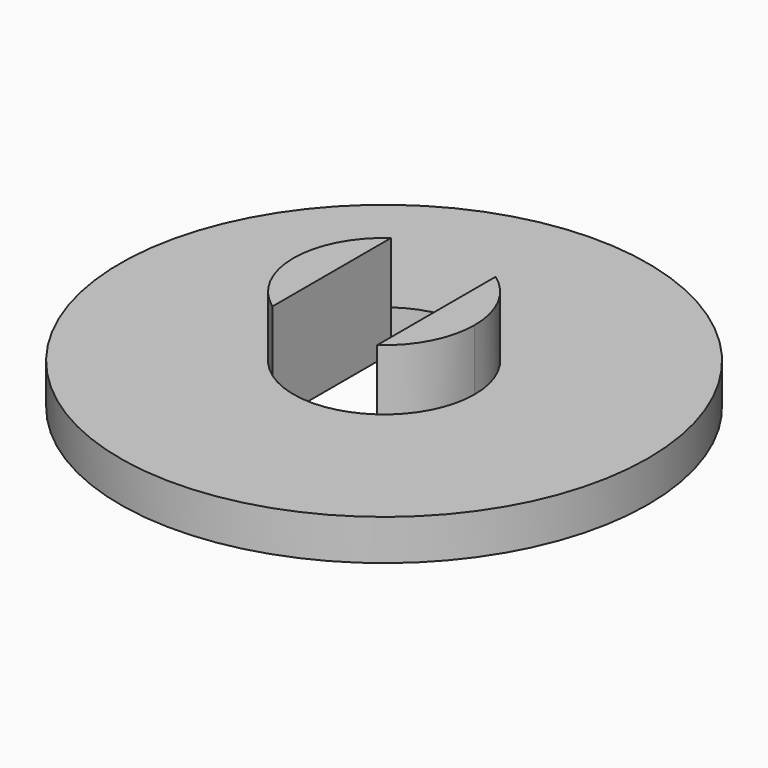
from build123d import *

# Parameters (mm, degrees)
F0_R     = 51.918659
F1_DEPTH = 8
F2_DEPTH = 20


with BuildPart() as f1:
    # F0 (on Top) → F1 (new body)
    with BuildSketch(Plane.XY):
        Circle(F0_R)
        with BuildLine():
            ThreePointArc((10.300017, 14.557494), (15.838083, 8.195493), (17.832863, 0))
            ThreePointArc((17.832863, 0), (15.838083, -8.195493), (10.300017, -14.557494))
            ThreePointArc((10.300017, -14.557494), (0, -17.832863), (-10.300017, -14.557494))
            ThreePointArc((-10.300017, -14.557494), (-17.832863, 0), (-10.300017, 14.557494))
            ThreePointArc((-10.300017, 14.557494), (0, 17.832863), (10.300017, 14.557494))
        make_face(mode=Mode.SUBTRACT)
        with BuildLine():
            Line((-10.300017, -14.557494), (-10.300017, 14.557494))
            ThreePointArc((-10.300017, 14.557494), (-17.832863, 0), (-10.300017, -14.557494))
        make_face()
        with BuildLine():
            ThreePointArc((10.300017, -14.557494), (15.838083, -8.195493), (17.832863, 0))
            ThreePointArc((17.832863, 0), (15.838083, 8.195493), (10.300017, 14.557494))
            Line((10.300017, 14.557494), (10.300017, -14.557494))
        make_face()
    extrude(amount=F1_DEPTH)

    # F0 (on Top) → F2 (join)
    with BuildSketch(Plane.XY):
        with BuildLine():
            Line((-10.300017, -14.557494), (-10.300017, 14.557494))
            ThreePointArc((-10.300017, 14.557494), (-17.832863, 0), (-10.300017, -14.557494))
        make_face()
        with BuildLine():
            ThreePointArc((10.300017, -14.557494), (15.838083, -8.195493), (17.832863, 0))
            ThreePointArc((17.832863, 0), (15.838083, 8.195493), (10.300017, 14.557494))
            Line((10.300017, 14.557494), (10.300017, -14.557494))
        make_face()
    extrude(amount=F2_DEPTH)


solid = f1.part
